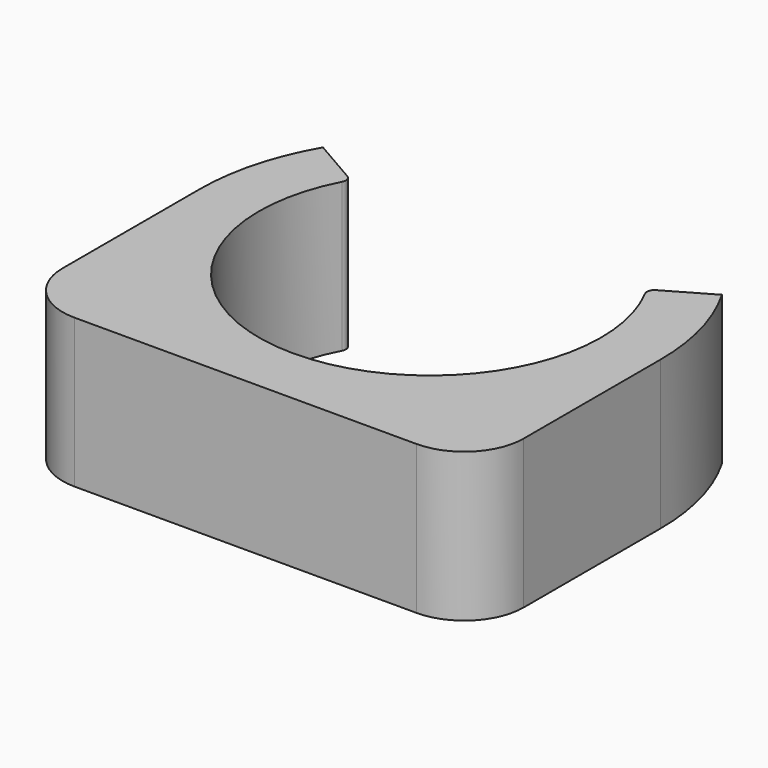
from build123d import *

# Parameters (mm, degrees)
F1_DEPTH = 5


with BuildPart() as f1:
    # F0 (on Top) → F1 (new body)
    with BuildSketch(Plane.XY):
        with BuildLine():
            ThreePointArc((5.090661, 2.673513), (0, -5.75), (-5.090661, 2.673513))
            ThreePointArc((-5.090661, 2.673513), (-5.071855, 2.859275), (-5.186994, 3.006259))
            Line((-5.186994, 3.006259), (-6.706691, 3.883657))
            ThreePointArc((-6.706691, 3.883657), (-7.48463, 2.010677), (-7.75, 0))
            ThreePointArc((-7.75, 0), (-5.480078, -5.480078), (0, -7.75))
            ThreePointArc((0, -7.75), (5.480078, -5.480078), (7.75, 0))
            ThreePointArc((7.75, 0), (7.48463, 2.010677), (6.706691, 3.883657))
            Line((6.706691, 3.883657), (5.186994, 3.006259))
            ThreePointArc((5.186994, 3.006259), (5.071855, 2.859275), (5.090661, 2.673513))
        make_face()
        with BuildLine():
            ThreePointArc((0, -7.75), (-5.480078, -5.480078), (-7.75, 0))
            Line((-7.75, 0), (-7.75, -5.75))
            ThreePointArc((-7.75, -5.75), (-7.164214, -7.164214), (-5.75, -7.75))
            Line((-5.75, -7.75), (0, -7.75))
        make_face()
        with BuildLine():
            Line((7.75, -5.75), (7.75, 0))
            ThreePointArc((7.75, 0), (5.480078, -5.480078), (0, -7.75))
            Line((0, -7.75), (5.75, -7.75))
            ThreePointArc((5.75, -7.75), (7.164214, -7.164214), (7.75, -5.75))
        make_face()
    extrude(amount=F1_DEPTH)


solid = f1.part
